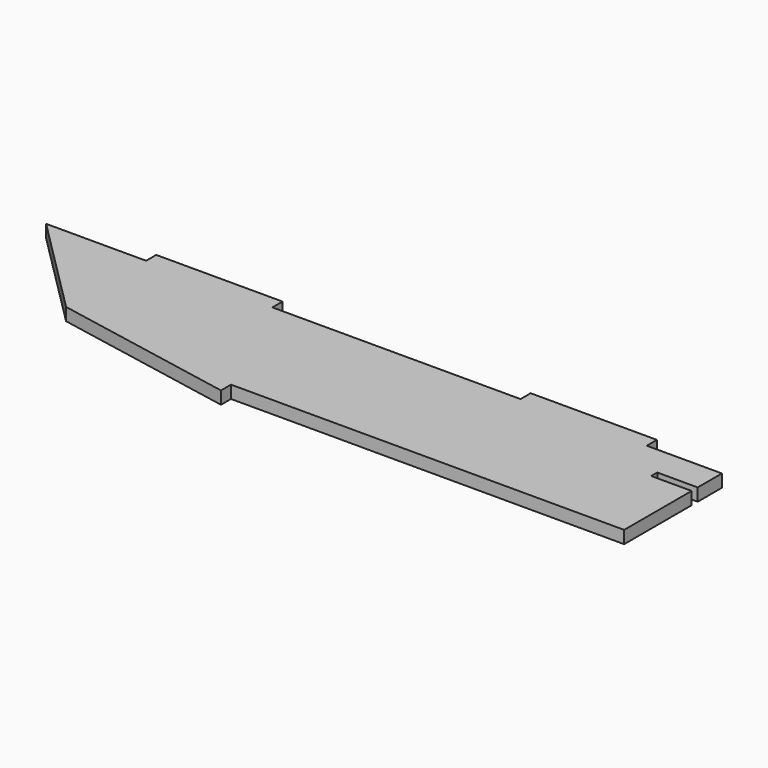
from build123d import *

# Parameters (mm, degrees)
PAD007_DEPTH = 5


with BuildPart() as part:
    # Sketch008 → Pad007 (new body)
    with BuildSketch(Plane.XY):
        with BuildLine():
            add(Edge.make_bspline(
                [(106.586773, -486.426543), (146.203717, -486.426543)],
                knots=[0, 0, 112.3, 112.3], degree=1))
            add(Edge.make_bspline(
                [(146.203717, -486.426543), (146.203717, -481.417098)],
                knots=[0, 0, 14.2, 14.2], degree=1))
            add(Edge.make_bspline(
                [(146.203717, -481.417098), (196.227605, -481.417098)],
                knots=[0, 0, 141.8, 141.8], degree=1))
            add(Edge.make_bspline(
                [(196.227605, -486.426543), (196.227605, -481.417098)],
                knots=[0, 0, 14.2, 14.2], degree=1))
            add(Edge.make_bspline(
                [(196.227605, -486.426543), (294.511491, -486.426543)],
                knots=[0, 0, 278.6, 278.6], degree=1))
            add(Edge.make_bspline(
                [(294.511491, -486.426543), (294.511491, -481.417098)],
                knots=[0, 0, 14.2, 14.2], degree=1))
            add(Edge.make_bspline(
                [(294.511491, -481.417098), (344.535379, -481.417098)],
                knots=[0, 0, 141.8, 141.8], degree=1))
            add(Edge.make_bspline(
                [(344.535379, -486.426543), (344.535379, -481.417098)],
                knots=[0, 0, 14.2, 14.2], degree=1))
            add(Edge.make_bspline(
                [(344.535379, -486.426543), (374.274545, -486.426543)],
                knots=[0, 0, 84.3, 84.3], degree=1))
            add(Edge.make_bspline(
                [(374.274545, -498.420987), (374.274545, -486.426543)],
                knots=[0, 0, 34, 34], degree=1))
            add(Edge.make_bspline(
                [(374.274545, -498.420987), (358.258434, -498.420987)],
                knots=[0, 0, 45.4, 45.4], degree=1))
            add(Edge.make_bspline(
                [(358.258434, -498.420987), (358.258434, -501.419598)],
                knots=[0, 0, 8.5, 8.5], degree=1))
            add(Edge.make_bspline(
                [(358.258434, -501.419598), (374.274545, -501.419598)],
                knots=[0, 0, 45.4, 45.4], degree=1))
            add(Edge.make_bspline(
                [(374.274545, -534.827653), (374.274545, -501.419598)],
                knots=[0, 0, 94.7, 94.7], degree=1))
            add(Edge.make_bspline(
                [(374.274545, -534.827653), (218.558437, -534.827653)],
                knots=[0, 0, 441.4, 441.4], degree=1))
            add(Edge.make_bspline(
                [(218.558437, -534.827653), (218.558437, -539.801819)],
                knots=[0, 0, 14.1, 14.1], degree=1))
            add(Edge.make_bspline(
                [(146.203717, -526.043486), (218.558437, -539.801819)],
                knots=[0, 0, 208.775022, 208.775022], degree=1))
            add(Edge.make_bspline(
                [(106.586773, -486.426543), (146.203717, -526.043486)],
                knots=[0, 0, 158.816183, 158.816183], degree=1))
        make_face()
    extrude(amount=PAD007_DEPTH)


solid = part.part
